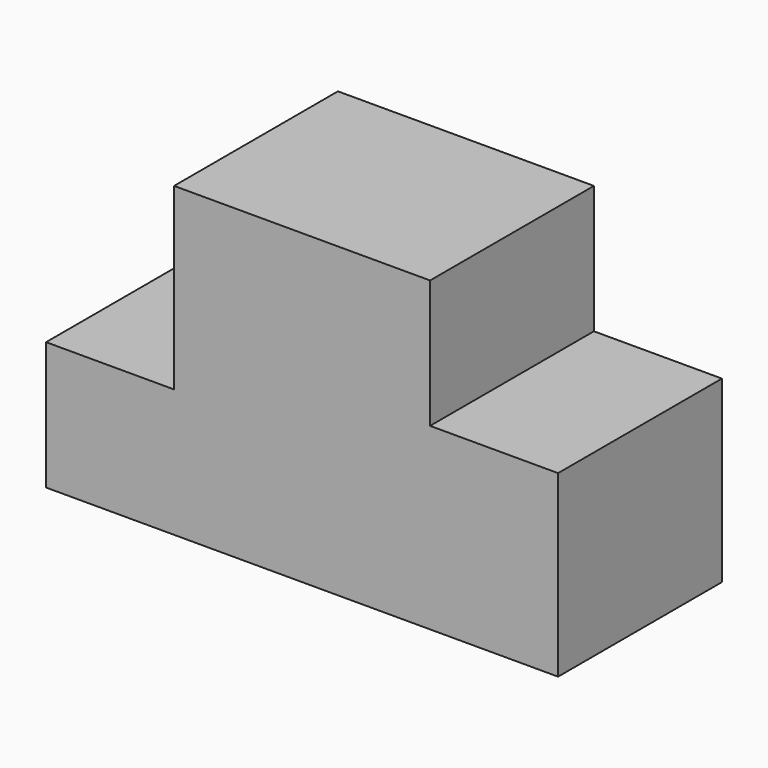
from build123d import *

# Parameters (mm, degrees)
F0_W     = 100
F0_H     = 25
F1_DEPTH = 40
F2_W     = 25
F2_H     = 40
F3_DEPTH = 10
F2_W_2   = 50
F4_DEPTH = 35


with BuildPart() as f1:
    # F0 (on Front) → F1 (new body)
    with BuildSketch(Plane.XZ):
        with Locations((-1.953125, 0)):
            Rectangle(F0_W, F0_H)
    extrude(amount=F1_DEPTH)

    # F2 (on face) → F3 (join)
    with BuildSketch(Plane.XY.offset(12.5)):
        with Locations((35.546875, -20)):
            Rectangle(F2_W, F2_H)
    extrude(amount=F3_DEPTH)

    # F2 (on face) → F4 (join)
    with BuildSketch(Plane.XY.offset(12.5)):
        with Locations((-1.953125, -20)):
            Rectangle(F2_W_2, F2_H)
    extrude(amount=F4_DEPTH)


solid = f1.part
